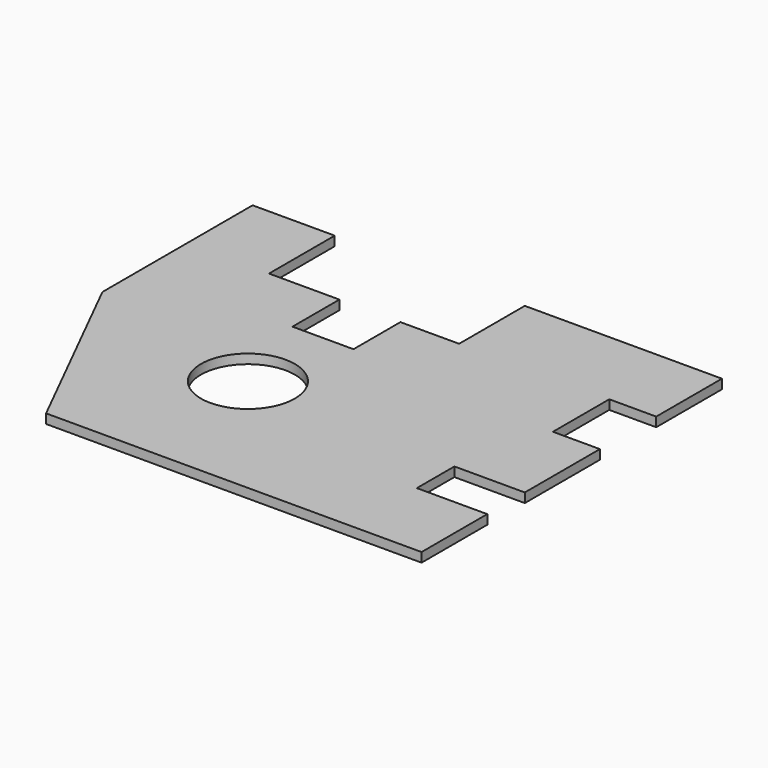
from build123d import *

# Parameters (mm, degrees)
F0_R     = 12.7
F1_DEPTH = 2.54


with BuildPart() as f1:
    # F0 (on Top) → F1 (new body)
    with BuildSketch(Plane.XY):
        Polygon((0, 50.8), (25.4, 0), (107.95, 0), (127, 0), (127, 22.225), (107.95, 22.225), (107.95, 34.925), (114.3, 34.925), (127, 34.925), (127, 60.325), (114.3, 60.325), (114.3, 79.375), (127, 79.375), (127, 101.6), (73.66, 101.6), (73.66, 79.375), (57.785, 79.375), (57.785, 63.5), (49.53, 63.5), (41.275, 63.5), (41.275, 79.375), (22.225, 79.375), (22.225, 101.6), (0, 101.6), align=None)
        with Locations((49.53, 38.1)):
            Circle(F0_R, mode=Mode.SUBTRACT)
    extrude(amount=F1_DEPTH)


solid = f1.part
